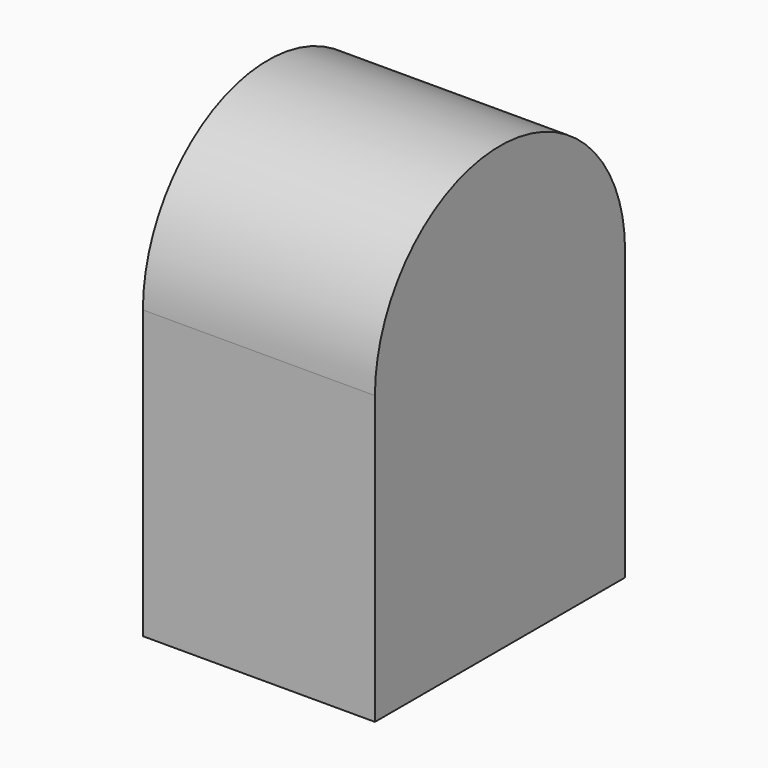
from build123d import *

# Parameters (mm, degrees)
CYLINDER002_R     = 28.3
CYLINDER002_DEPTH = 42
BOX004_W          = 42
BOX004_H          = 56.6
BOX004_DEPTH      = 52


with BuildPart() as top_cylinder001:
    # Cylinder002 → Cylinder002 (new body)
    with BuildSketch(Plane(origin=(-2, -6.5, 0), x_dir=(0, 0, -1), z_dir=(1, 0, 0))):
        Circle(CYLINDER002_R)
    extrude(amount=CYLINDER002_DEPTH)


with BuildPart() as bisect_intersect:
    # Box004 → Box004 (new body)
    with BuildSketch(Plane(origin=(-2, 21.8, 0), x_dir=(1, 0, 0), z_dir=(0, 0, -1))):
        with Locations((21, 28.3)):
            Rectangle(BOX004_W, BOX004_H)
    extrude(amount=BOX004_DEPTH)

    # Fusion002: union top cylinder001
    add(top_cylinder001.part)


solid = bisect_intersect.part
